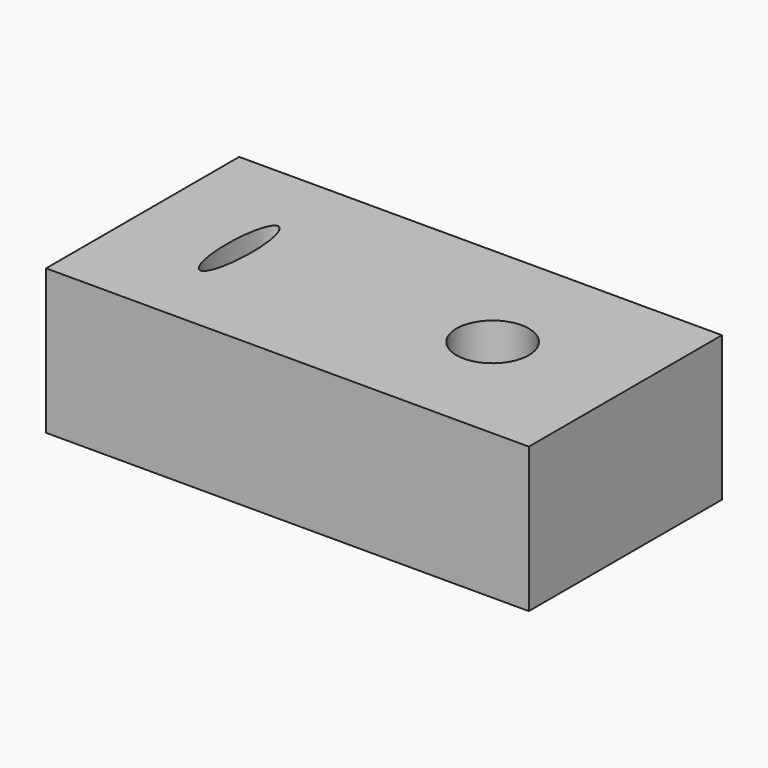
from build123d import *

# Parameters (mm, degrees)
F0_W     = 254
F0_H     = 127
F1_DEPTH = 76.2
F4_DEPTH = 76.201
F2_R     = 19.05
F5_DEPTH = 279.4


with BuildPart() as f1:
    # F0 (on Top) → F1 (new body)
    with BuildSketch(Plane.XY):
        with Locations((127, 63.5)):
            Rectangle(F0_W, F0_H)
    extrude(amount=F1_DEPTH)

    # F3 (on Top) → F4 (cut, through all)
    with BuildSketch(Plane.XY):
        with BuildLine():
            add(Edge.make_bspline(
                [(50.8, 38.1), (61.798523, 38.1), (56.299261, 76.2), (50.8, 114.3), (45.300739, 76.2), (39.801477, 38.1), (50.8, 38.1)],
                knots=[0, 0, 0, 2.094395, 2.094395, 4.18879, 4.18879, 6.283185, 6.283185, 6.283185], degree=2, weights=[1, 0.5, 1, 0.5, 1, 0.5, 1]))
        make_face()
    extrude(amount=F4_DEPTH, mode=Mode.SUBTRACT)

    # F2 (on Top) → F5 (cut)
    with BuildSketch(Plane.XY):
        with Locations((184.15, 63.5)):
            Circle(F2_R)
    extrude(amount=F5_DEPTH, mode=Mode.SUBTRACT)


solid = f1.part
